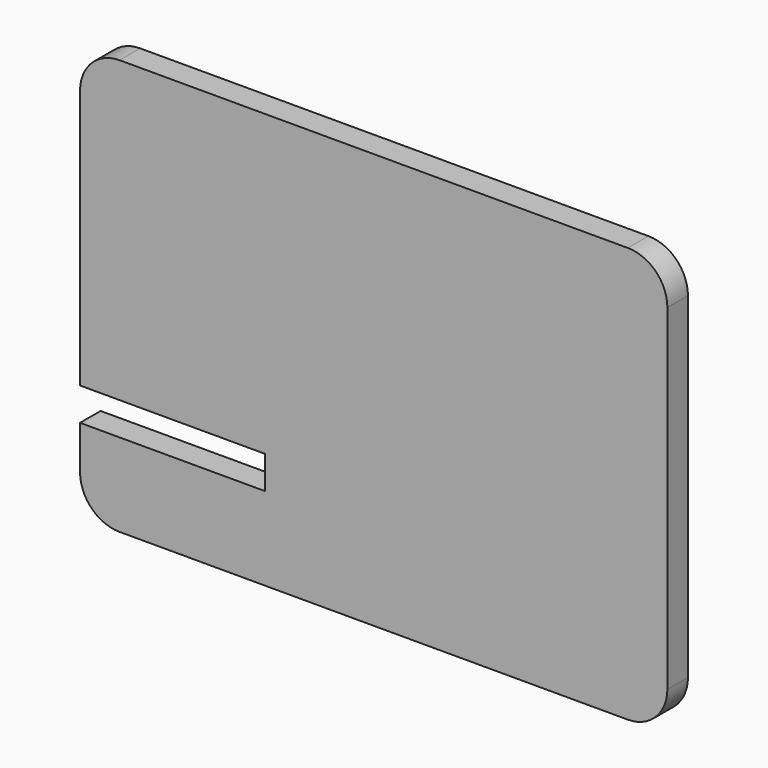
from build123d import *

# Parameters (mm, degrees)
F1_DEPTH = 13
F2_W     = 93.5410387069
F2_H     = 16.6039168835
F3_DEPTH = 25


with BuildPart() as f1:
    # F0 (on Front) → F1 (new body)
    with BuildSketch(Plane.XZ):
        with BuildLine():
            Line((170.7950250506, 86.4206299046), (-86.2049749494, 86.4206299046))
            ThreePointArc((-86.2049749494, 86.4206299046), (-100.3471105731, 80.5627655283), (-106.2049749494, 66.4206299046))
            Line((-106.2049749494, 66.4206299046), (-106.2049749494, -103.5793700954))
            ThreePointArc((-106.2049749494, -103.5793700954), (-100.3471105731, -117.7215057191), (-86.2049749494, -123.5793700954))
            Line((-86.2049749494, -123.5793700954), (170.7950250506, -123.5793700954))
            ThreePointArc((170.7950250506, -123.5793700954), (184.9371606744, -117.7215057191), (190.7950250506, -103.5793700954))
            Line((190.7950250506, -103.5793700954), (190.7950250506, 66.4206299046))
            ThreePointArc((190.7950250506, 66.4206299046), (184.9371606744, 80.5627655283), (170.7950250506, 86.4206299046))
        make_face()
    extrude(amount=F1_DEPTH)

    # F2 (on face) → F3 (cut)
    with BuildSketch(Plane.XZ.offset(13)):
        with Locations((-59.4344555959, -73.2062533498)):
            Rectangle(F2_W, F2_H)
    extrude(amount=-F3_DEPTH, mode=Mode.SUBTRACT)


solid = f1.part
